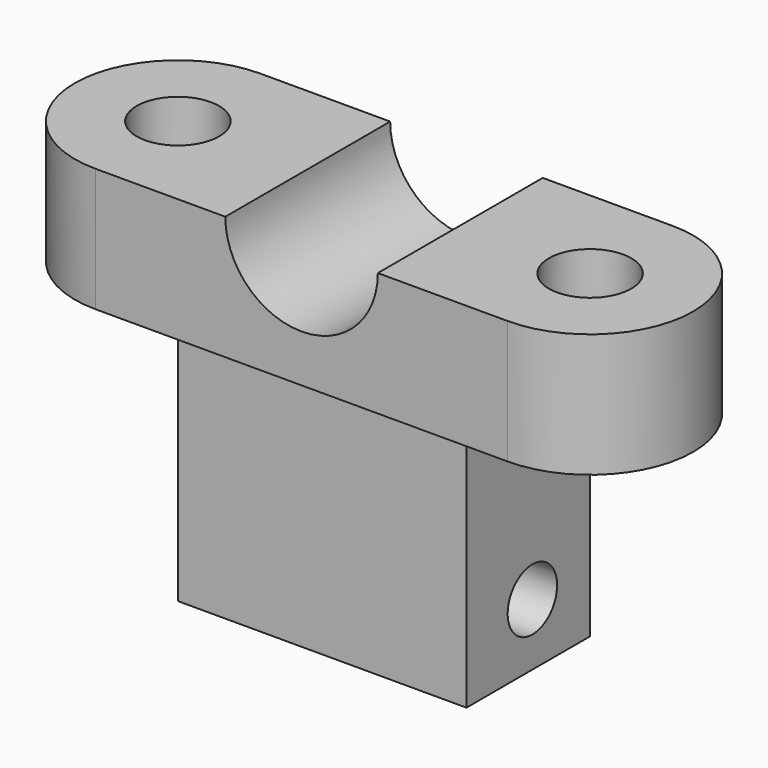
from build123d import *

# Parameters (mm, degrees)
SKETCH_R             = 2
PAD_DEPTH            = 6
CYLINDER_R           = 3.7
CYLINDER_DEPTH       = 10
SKETCH001_W          = 14
SKETCH001_H          = 7.5
PAD001_DEPTH         = 12
SKETCH002_R          = 1.5
POCKET_DEPTH         = 14
BODY_PLACEMENT_ANGLE = 180


with BuildPart() as part:
    # Sketch → Pad (new body)
    with BuildSketch(Plane.XY):
        with BuildLine():
            ThreePointArc((2.9e-05, 5), (-5, 1e-05), (1e-05, -5))
            Line((1e-05, -5), (20.00001, -5))
            ThreePointArc((20.00001, -5), (25.000039, -1e-05), (20.000029, 5))
            Line((2.9e-05, 5), (20.000029, 5))
        make_face()
        Circle(SKETCH_R, mode=Mode.SUBTRACT)
        with Locations((20.000039, 0)):
            Circle(SKETCH_R, mode=Mode.SUBTRACT)
    extrude(amount=PAD_DEPTH)

    # Cylinder → Cylinder (cut)
    with BuildSketch(Plane(origin=(10, 5, 0), x_dir=(1, 0, 0), z_dir=(0, -1, 0))):
        Circle(CYLINDER_R)
    extrude(amount=CYLINDER_DEPTH, mode=Mode.SUBTRACT)

    # Sketch001 (on Face5 of Cylinder) → Pad001 (join)
    with BuildSketch(Plane(origin=(10, 5, 6), x_dir=(-1, 0, 0), z_dir=(0, 0, 1))):
        with Locations((0, 5)):
            Rectangle(SKETCH001_W, SKETCH001_H)
    extrude(amount=PAD001_DEPTH)

    # Sketch002 (on Face10 of Pad001) → Pocket (cut)
    with BuildSketch(Plane(origin=(17, 5, 0), x_dir=(0, 0, 1), z_dir=(1, 0, 0))):
        with Locations((15, 4.75)):
            Circle(SKETCH002_R)
    extrude(amount=-POCKET_DEPTH, mode=Mode.SUBTRACT)


with BuildPart() as part_1:
    # Body placement: moved
    add(part.part.rotate(Axis((0, 0, 0), (0, 1, 0)), BODY_PLACEMENT_ANGLE))


solid = part_1.part
